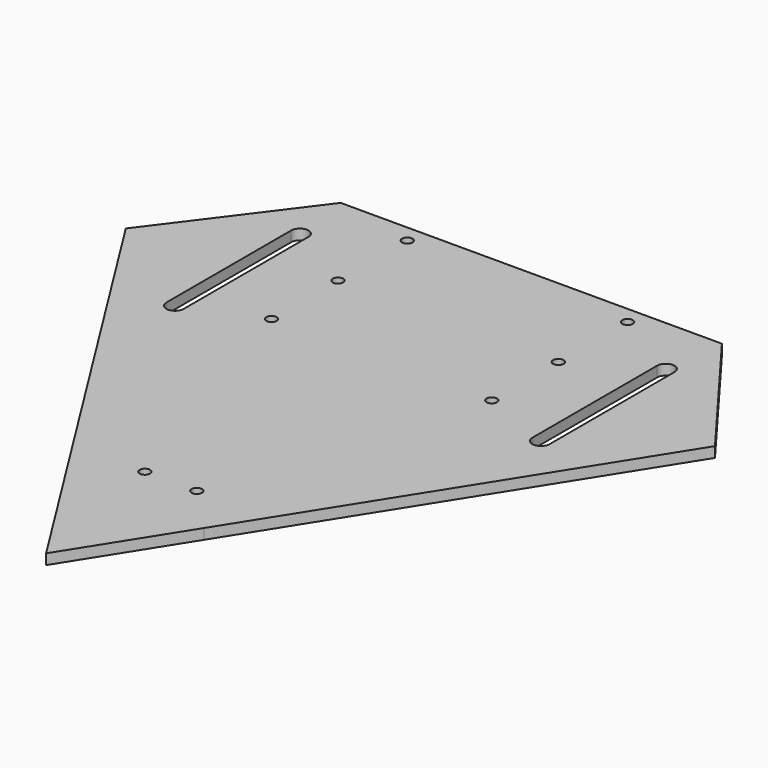
from build123d import *

# Parameters (mm, degrees)
F1_DEPTH = 3
F4_D     = 3
F6_D     = 3
F9_DEPTH = 34.3733802438


with BuildPart() as f1:
    # F0 (on Top) → F1 (new body)
    with BuildSketch(Plane.XY):
        Polygon((55, 0), (0, 0), (0, -143.1418224907), (20.0588525058, -143.1418224907), (85, -40), align=None)
        Polygon((20.0588525058, -143.1418224907), (0, -143.1418224907), (0, -175), align=None)
    extrude(amount=F1_DEPTH)

    # F4 (through all)
    with Locations(Plane.XY.offset(3)):
        with Locations((7.5, -130)):
            Hole(F4_D / 2)

    # F6 (through all)
    with Locations(Plane.XY.offset(3)):
        with Locations((31.7933925533, -30), (31.7933925533, -54), (31.7933925533, -5)):
            Hole(F6_D / 2)

    # F8 (on face) → F9 (cut)
    with BuildSketch(Plane.XY.offset(3)):
        with BuildLine():
            ThreePointArc((55.3, -17.5), (52.8, -15), (50.3, -17.5))
            Line((50.3, -17.5), (50.3, -62.5))
            ThreePointArc((50.3, -62.5), (52.8, -65), (55.3, -62.5))
            Line((55.3, -62.5), (55.3, -17.5))
        make_face()
    extrude(amount=-F9_DEPTH, mode=Mode.SUBTRACT)

    # F10: F1 across plane


with BuildPart() as f1_1:
    add(f1.part)
    add(f1.part.mirror(Plane.YZ))


solid = f1_1.part
